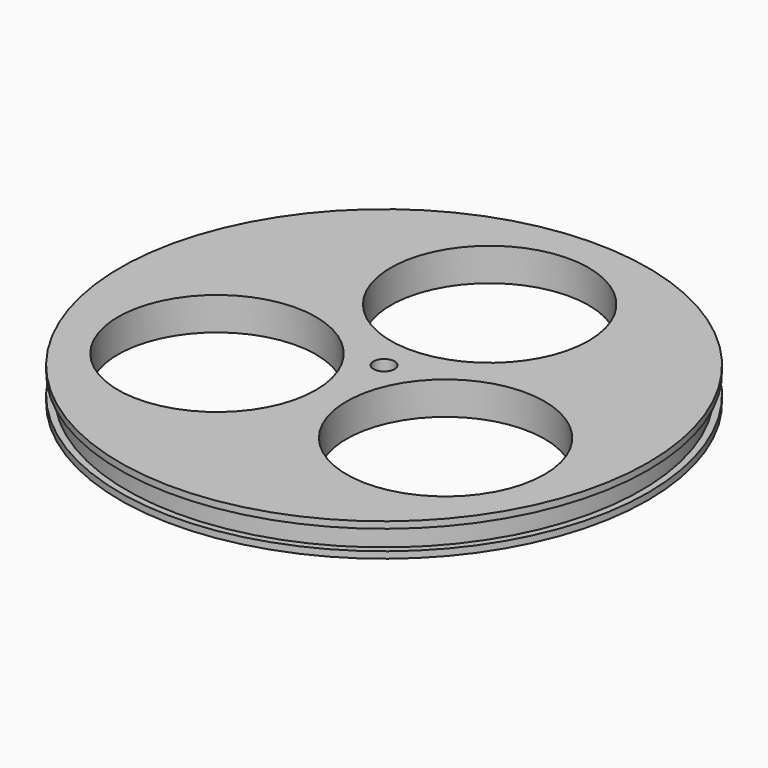
from build123d import *

# Parameters (mm, degrees)
F0_R     = 40
F0_R_2   = 1.6
F1_DEPTH = 5
F2_W     = 1
F2_H     = 3
F4_R     = 15
F5_DEPTH = 25


with BuildPart() as f1:
    # F0 (on Top) → F1 (new body)
    with BuildSketch(Plane.XY):
        Circle(F0_R)
        Circle(F0_R_2, mode=Mode.SUBTRACT)
    extrude(amount=F1_DEPTH)

    # F2 (on Right) → F3 (revolve, cut)
    with BuildSketch(Plane.YZ):
        with Locations((39.5, 2.5)):
            Rectangle(F2_W, F2_H)
    revolve(axis=Axis((0, 0, 5), (0, 0, 1)), mode=Mode.SUBTRACT)

    # F4 (on face) → F5 (cut)
    with BuildSketch(Plane.XY.offset(5)):
        with Locations((0, 20)):
            Circle(F4_R)
        with Locations((-17.320508, -10)):
            Circle(F4_R)
        with Locations((17.320508, -10)):
            Circle(F4_R)
    extrude(amount=-F5_DEPTH, mode=Mode.SUBTRACT)


solid = f1.part
